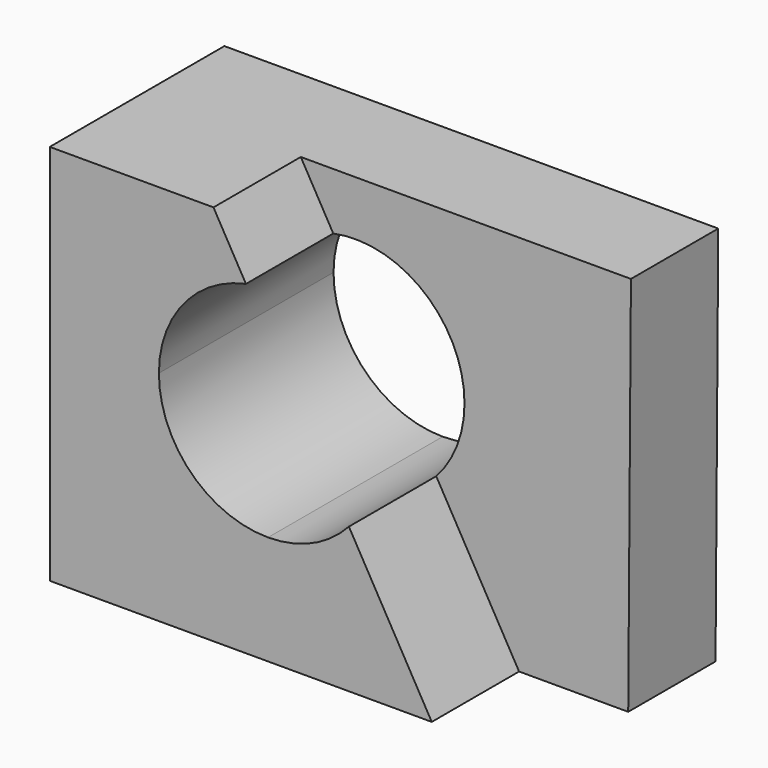
from build123d import *

# Parameters (mm, degrees)
F1_DEPTH = 25.4
F3_DEPTH = 12.7
F5_DEPTH = 25.401


with BuildPart() as f1:
    # F0 (on Front) → F1 (new body)
    with BuildSketch(Plane.XZ):
        Polygon((29.228445, 34.023839), (-28.236794, 34.024957), (-28.236794, -10.425043), (28.913206, -10.425043), align=None)
    extrude(amount=F1_DEPTH)

    # F2 (on face) → F3 (cut)
    with BuildSketch(Plane.XZ.offset(25.4)):
        Polygon((29.228445, 34.023839), (-9.186794, 34.024587), (16.213206, -10.425043), (28.913206, -10.425043), align=None)
    extrude(amount=-F3_DEPTH, mode=Mode.SUBTRACT)

    # F4 (on face) → F5 (cut, through all)
    with BuildSketch(Plane.XZ.offset(25.4)):
        with BuildLine():
            Line((-2.836794, 14.974957), (-15.536794, 14.974957))
            ThreePointArc((-15.536794, 14.974957), (-11.81705, 5.994701), (-2.836794, 2.274957))
            Line((-2.836794, 2.274957), (-2.836794, 14.974957))
        make_face()
        with BuildLine():
            Line((6.572767, 6.445586), (-5.408103, 27.411933))
            ThreePointArc((-5.408103, 27.411933), (-12.684271, 22.994757), (-15.536794, 14.974957))
            Line((-15.536794, 14.974957), (-2.836794, 14.974957))
            Line((-2.836794, 14.974957), (-2.836794, 2.274957))
            ThreePointArc((-2.836794, 2.274957), (2.309418, 3.364337), (6.572767, 6.445586))
        make_face()
        with BuildLine():
            ThreePointArc((6.572767, 6.445586), (9.012076, 10.40393), (9.863206, 14.974957))
            ThreePointArc((9.863206, 14.974957), (5.183006, 24.822435), (-5.408103, 27.411933))
            Line((-5.408103, 27.411933), (6.572767, 6.445586))
        make_face()
    extrude(amount=-F5_DEPTH, mode=Mode.SUBTRACT)


solid = f1.part
